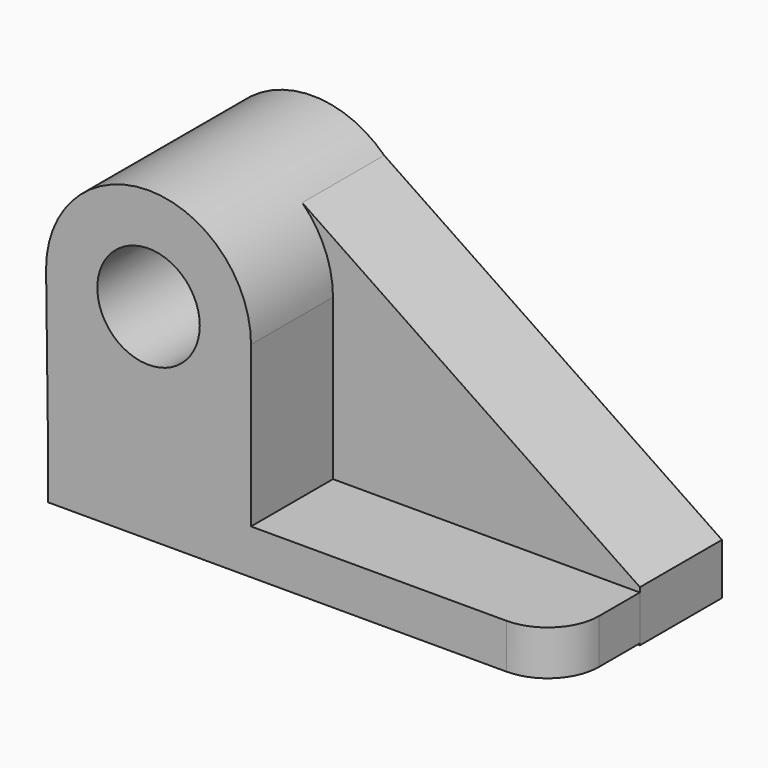
from build123d import *

# Parameters (mm, degrees)
F0_R     = 12.7
F1_DEPTH = 25.4
F2_R     = 12.7
F3_DEPTH = 50.8
F4_R     = 12.7


with BuildPart() as f1:
    # F0 (on Front) → F1 (new body)
    with BuildSketch(Plane.XZ):
        with BuildLine():
            Line((64.218075, -10.262585), (-23.134906, 48.871121))
            ThreePointArc((-23.134906, 48.871121), (-49.279468, 50.274275), (-62.773699, 27.837415))
            Line((-62.773699, 27.837415), (-62.773699, -22.962585))
            Line((-62.773699, -22.962585), (64.218075, -22.962585))
            Line((64.218075, -22.962585), (64.218075, -10.262585))
        make_face()
        with Locations((-37.373699, 27.837415)):
            Circle(F0_R, mode=Mode.SUBTRACT)
    extrude(amount=F1_DEPTH)

    # F2 (on Front) → F3 (join)
    with BuildSketch(Plane.XZ):
        with BuildLine():
            Line((-11.877737, -11.430001), (-11.877737, 28.269436))
            ThreePointArc((-11.877737, 28.269436), (-37.277737, 53.669436), (-62.677737, 28.269436))
            Line((-62.677737, 28.269436), (-62.1792, -11.430001))
            Line((-62.1792, -11.430001), (-62.1792, -22.529295))
            Line((-62.1792, -22.529295), (64.197391, -22.529295))
            Line((64.197391, -22.529295), (64.197391, -11.430001))
            Line((64.197391, -11.430001), (-11.877737, -11.430001))
        make_face()
        with Locations((-37.277737, 28.269436)):
            Circle(F2_R, mode=Mode.SUBTRACT)
    extrude(amount=F3_DEPTH)

    # F4
    f4_edges = [f1.edges().sort_by_distance(p)[0] for p in [
        (64.197391, -50.8, -16.979648),
    ]]
    fillet(f4_edges, radius=F4_R)


solid = f1.part
